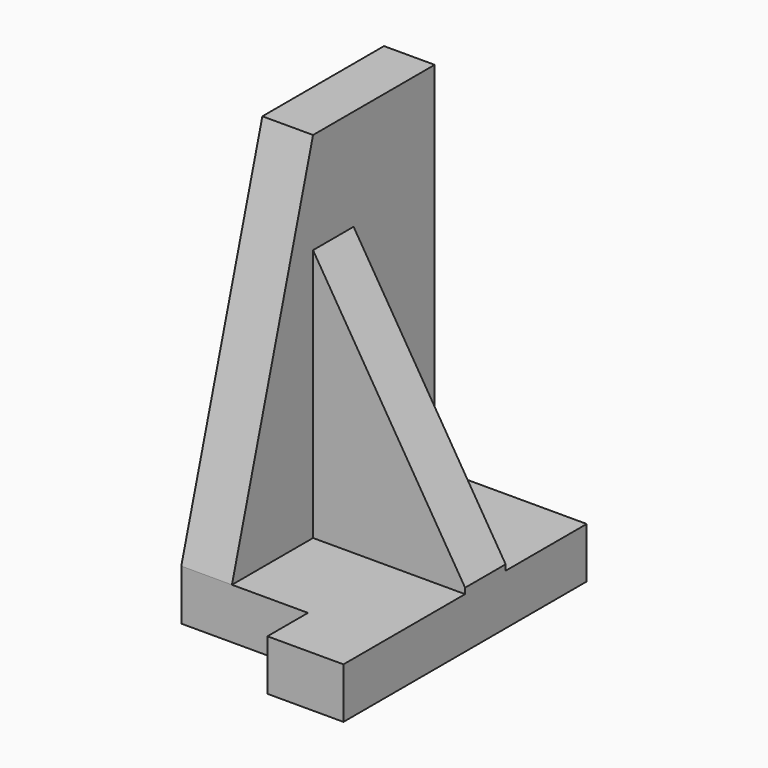
from build123d import *

# Parameters (mm, degrees)
F1_DEPTH = 5
F3_DEPTH = 5
F4_W     = 5
F4_H     = 25
F5_DEPTH = 20
F7_DEPTH = 25


with BuildPart() as f1:
    # F0 (on Top) → F1 (new body)
    with BuildSketch(Plane.XY):
        Polygon((0, 25), (0, 0), (12.5, 0), (12.5, -5), (20, -5), (20, 25), align=None)
    extrude(amount=F1_DEPTH)

    # F2 (on Right) → F3 (join)
    with BuildSketch(Plane.YZ):
        Polygon((10, 40), (0, 5), (25, 5), (25, 40), align=None)
    extrude(amount=F3_DEPTH)

    # F4 (on Right) → F5 (join)
    with BuildSketch(Plane.YZ):
        with Locations((12.5, 17.5)):
            Rectangle(F4_W, F4_H)
    extrude(amount=F5_DEPTH)

    # F6 (on Front) → F7 (cut)
    with BuildSketch(Plane.XZ):
        Polygon((20.343749, 30), (5, 30), (20.343749, 5), align=None)
    extrude(amount=-F7_DEPTH, mode=Mode.SUBTRACT)


solid = f1.part
